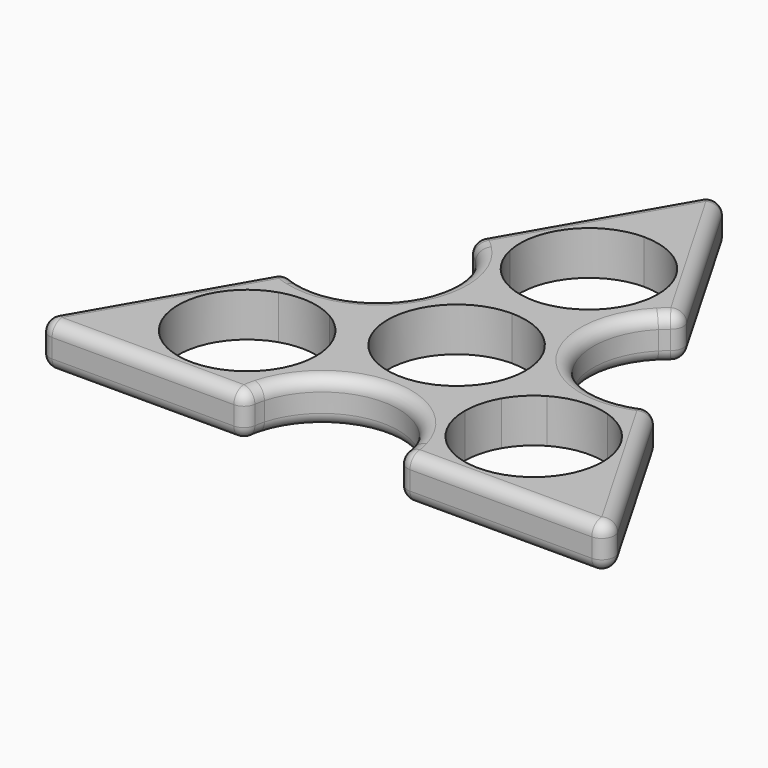
from build123d import *

# Parameters (mm, degrees)
F1_DEPTH = 7
F2_R     = 2


with BuildPart() as f1:
    # F0 (on Top) → F1 (new body)
    with BuildSketch(Plane.XY):
        with BuildLine():
            Line((-16.11, -1.5068842026), (-6.75, 14.7051113563))
            ThreePointArc((-6.75, 14.7051113563), (-10.723450587, 18.1953807491), (-13.0511507063, 22.9442861131))
            ThreePointArc((-13.0511507063, 22.9442861131), (-13.8274395377, 22.4849886776), (-14.5875829235, 21.9994369121))
            ThreePointArc((-14.5875829235, 21.9994369121), (-12.6993398587, 7.3319672859), (-26.3458626966, 1.6334989355))
            ThreePointArc((-26.3458626966, 1.6334989355), (-26.3862911674, 0.7324195701), (-26.3959099988, -0.1695149963))
            ThreePointArc((-26.3959099988, -0.1695149963), (-21.1193872538, 0.18909025), (-16.11, -1.5068842026))
        make_face()
        with BuildLine():
            ThreePointArc((13.3447592925, -22.7747711168), (10.3959366667, -18.3844709991), (9.36, -13.1982271537))
            Line((9.36, -13.1982271537), (-9.36, -13.1982271537))
            ThreePointArc((-9.36, -13.1982271537), (-10.3959366667, -18.3844709991), (-13.3447592925, -22.7747711168))
            ThreePointArc((-13.3447592925, -22.7747711168), (-12.5588516298, -23.2174082477), (-11.7582797731, -23.6329358476))
            ThreePointArc((-11.7582797731, -23.6329358476), (0, -14.6639345718), (11.7582797731, -23.6329358476))
            ThreePointArc((11.7582797731, -23.6329358476), (12.5588516298, -23.2174082477), (13.3447592925, -22.7747711168))
        make_face()
        with BuildLine():
            Line((11.1686570489, -6.4482271537), (9.5262794416, -5.5))
            ThreePointArc((9.5262794416, -5.5), (0, -11), (-9.5262794416, -5.5))
            Line((-9.5262794416, -5.5), (-11.1686570489, -6.4482271537))
            ThreePointArc((-11.1686570489, -6.4482271537), (-9.8200013451, -9.7041700448), (-9.36, -13.1982271537))
            Line((-9.36, -13.1982271537), (9.36, -13.1982271537))
            ThreePointArc((9.36, -13.1982271537), (9.8200013451, -9.7041700448), (11.1686570489, -6.4482271537))
        make_face()
        with BuildLine():
            ThreePointArc((0, 11), (7.7781745931, 7.7781745931), (11, 0))
            ThreePointArc((11, 0), (10.6251840892, -2.8470094961), (9.5262794416, -5.5))
            Line((9.5262794416, -5.5), (11.1686570489, -6.4482271537))
            ThreePointArc((11.1686570489, -6.4482271537), (13.314058454, -3.6522856077), (16.11, -1.5068842026))
            Line((16.11, -1.5068842026), (6.75, 14.7051113563))
            ThreePointArc((6.75, 14.7051113563), (3.4940571089, 13.3564556524), (0, 12.8964543073))
            Line((0, 12.8964543073), (0, 11))
        make_face()
        with BuildLine():
            ThreePointArc((13.0511507063, 22.9442861131), (10.723450587, 18.1953807491), (6.75, 14.7051113563))
            Line((6.75, 14.7051113563), (16.11, -1.5068842026))
            ThreePointArc((16.11, -1.5068842026), (21.1193872538, 0.18909025), (26.3959099988, -0.1695149963))
            ThreePointArc((26.3959099988, -0.1695149963), (26.3963182299, -0.0847579351), (26.3964543073, 0))
            ThreePointArc((26.3964543073, 0), (26.3838033731, 0.817141096), (26.3458626966, 1.6334989355))
            ThreePointArc((26.3458626966, 1.6334989355), (12.6993398587, 7.3319672859), (14.5875829235, 21.9994369121))
            ThreePointArc((14.5875829235, 21.9994369121), (13.8274395377, 22.4849886776), (13.0511507063, 22.9442861131))
        make_face()
        with BuildLine():
            ThreePointArc((26.3959099988, -0.1695149963), (21.1193872538, 0.18909025), (16.11, -1.5068842026))
            Line((16.11, -1.5068842026), (17.36, -3.671947712))
            ThreePointArc((17.36, -3.671947712), (21.7076724667, -2.2587508748), (26.2543774322, -2.7350439933))
            ThreePointArc((26.2543774322, -2.7350439933), (26.3563782869, -1.4540026127), (26.3959099988, -0.1695149963))
        make_face()
        with BuildLine():
            ThreePointArc((15.4958062948, -21.3694358202), (14.4373923432, -22.0982918418), (13.3447592925, -22.7747711168))
            ThreePointArc((13.3447592925, -22.7747711168), (24.6435899017, -26.5798865075), (34.5513429511, -19.9482271537))
            Line((34.5513429511, -19.9482271537), (32.3862794416, -18.6982271537))
            ThreePointArc((32.3862794416, -18.6982271537), (24.5782818797, -24.0631941293), (15.4958062948, -21.3694358202))
        make_face()
        with BuildLine():
            ThreePointArc((36.36, -13.1982271537), (33.583450587, -4.9971535954), (26.3959099988, -0.1695149963))
            ThreePointArc((26.3959099988, -0.1695149963), (26.3563782869, -1.4540026127), (26.2543774322, -2.7350439933))
            ThreePointArc((26.2543774322, -2.7350439933), (31.7577005949, -6.7305440969), (33.86, -13.1982271537))
            ThreePointArc((33.86, -13.1982271537), (33.4851840892, -16.0452366498), (32.3862794416, -18.6982271537))
            Line((32.3862794416, -18.6982271537), (34.5513429511, -19.9482271537))
            ThreePointArc((34.5513429511, -19.9482271537), (35.8999986549, -16.6922842626), (36.36, -13.1982271537))
        make_face()
        with BuildLine():
            Line((11.86, -13.1982271537), (9.36, -13.1982271537))
            ThreePointArc((9.36, -13.1982271537), (10.3959366667, -18.3844709991), (13.3447592925, -22.7747711168))
            ThreePointArc((13.3447592925, -22.7747711168), (14.4373923432, -22.0982918418), (15.4958062948, -21.3694358202))
            ThreePointArc((15.4958062948, -21.3694358202), (12.8099718717, -17.6700203758), (11.86, -13.1982271537))
        make_face()
        with BuildLine():
            ThreePointArc((-34.5513429511, -19.9482271537), (-24.6435899017, -26.5798865075), (-13.3447592925, -22.7747711168))
            ThreePointArc((-13.3447592925, -22.7747711168), (-14.4373923432, -22.0982918418), (-15.4958062948, -21.3694358202))
            ThreePointArc((-15.4958062948, -21.3694358202), (-24.5782818797, -24.0631941293), (-32.3862794416, -18.6982271537))
            Line((-32.3862794416, -18.6982271537), (-34.5513429511, -19.9482271537))
        make_face()
        with BuildLine():
            ThreePointArc((-26.2543774322, -2.7350439933), (-26.3563782869, -1.4540026127), (-26.3959099988, -0.1695149963))
            ThreePointArc((-26.3959099988, -0.1695149963), (-35.3406518961, -8.0520316416), (-34.5513429511, -19.9482271537))
            Line((-34.5513429511, -19.9482271537), (-32.3862794416, -18.6982271537))
            ThreePointArc((-32.3862794416, -18.6982271537), (-33.128478352, -9.2538194245), (-26.2543774322, -2.7350439933))
        make_face()
        with BuildLine():
            Line((-17.36, -3.671947712), (-16.11, -1.5068842026))
            ThreePointArc((-16.11, -1.5068842026), (-21.1193872538, 0.18909025), (-26.3959099988, -0.1695149963))
            ThreePointArc((-26.3959099988, -0.1695149963), (-26.3563782869, -1.4540026127), (-26.2543774322, -2.7350439933))
            ThreePointArc((-26.2543774322, -2.7350439933), (-21.7076724667, -2.2587508748), (-17.36, -3.671947712))
        make_face()
        with BuildLine():
            ThreePointArc((-13.3447592925, -22.7747711168), (-10.3959366667, -18.3844709991), (-9.36, -13.1982271537))
            Line((-9.36, -13.1982271537), (-11.86, -13.1982271537))
            ThreePointArc((-11.86, -13.1982271537), (-12.8099718717, -17.6700203758), (-15.4958062948, -21.3694358202))
            ThreePointArc((-15.4958062948, -21.3694358202), (-14.4373923432, -22.0982918418), (-13.3447592925, -22.7747711168))
        make_face()
        with BuildLine():
            ThreePointArc((-9.36, -13.1982271537), (-9.8200013451, -9.7041700448), (-11.1686570489, -6.4482271537))
            Line((-11.1686570489, -6.4482271537), (-13.3337205584, -7.6982271537))
            ThreePointArc((-13.3337205584, -7.6982271537), (-12.2348159108, -10.3512176575), (-11.86, -13.1982271537))
            Line((-11.86, -13.1982271537), (-9.36, -13.1982271537))
        make_face()
        with BuildLine():
            Line((-13.3337205584, -7.6982271537), (-11.1686570489, -6.4482271537))
            ThreePointArc((-11.1686570489, -6.4482271537), (-13.314058454, -3.6522856077), (-16.11, -1.5068842026))
            Line((-16.11, -1.5068842026), (-17.36, -3.671947712))
            ThreePointArc((-17.36, -3.671947712), (-15.0818254069, -5.4200525606), (-13.3337205584, -7.6982271537))
        make_face()
        with BuildLine():
            ThreePointArc((-9.5262794416, -5.5), (-9.5262794416, 5.5), (0, 11))
            Line((0, 11), (0, 12.8964543073))
            ThreePointArc((0, 12.8964543073), (-3.4940571089, 13.3564556524), (-6.75, 14.7051113563))
            Line((-6.75, 14.7051113563), (-16.11, -1.5068842026))
            ThreePointArc((-16.11, -1.5068842026), (-13.314058454, -3.6522856077), (-11.1686570489, -6.4482271537))
            Line((-11.1686570489, -6.4482271537), (-9.5262794416, -5.5))
        make_face()
        with BuildLine():
            ThreePointArc((16.11, -1.5068842026), (13.314058454, -3.6522856077), (11.1686570489, -6.4482271537))
            Line((11.1686570489, -6.4482271537), (13.3337205584, -7.6982271537))
            ThreePointArc((13.3337205584, -7.6982271537), (15.0818254069, -5.4200525606), (17.36, -3.671947712))
            Line((17.36, -3.671947712), (16.11, -1.5068842026))
        make_face()
        with BuildLine():
            Line((13.3337205584, -7.6982271537), (11.1686570489, -6.4482271537))
            ThreePointArc((11.1686570489, -6.4482271537), (9.8200013451, -9.7041700448), (9.36, -13.1982271537))
            Line((9.36, -13.1982271537), (11.86, -13.1982271537))
            ThreePointArc((11.86, -13.1982271537), (12.2348159108, -10.3512176575), (13.3337205584, -7.6982271537))
        make_face()
        with BuildLine():
            ThreePointArc((-13.0511507063, 22.9442861131), (-10.723450587, 18.1953807491), (-6.75, 14.7051113563))
            Line((-6.75, 14.7051113563), (-5.5, 16.8701748657))
            ThreePointArc((-5.5, 16.8701748657), (-8.8977005949, 19.9287712506), (-10.7585711375, 24.1044798135))
            ThreePointArc((-10.7585711375, 24.1044798135), (-11.9189859437, 23.5522944546), (-13.0511507063, 22.9442861131))
        make_face()
        with BuildLine():
            ThreePointArc((-6.75, 14.7051113563), (-3.4940571089, 13.3564556524), (0, 12.8964543073))
            Line((0, 12.8964543073), (0, 15.3964543073))
            ThreePointArc((0, 15.3964543073), (-2.8470094961, 15.7712702182), (-5.5, 16.8701748657))
            Line((-5.5, 16.8701748657), (-6.75, 14.7051113563))
        make_face()
        with BuildLine():
            Line((0, 15.3964543073), (0, 12.8964543073))
            ThreePointArc((0, 12.8964543073), (3.4940571089, 13.3564556524), (6.75, 14.7051113563))
            Line((6.75, 14.7051113563), (5.5, 16.8701748657))
            ThreePointArc((5.5, 16.8701748657), (2.8470094961, 15.7712702182), (0, 15.3964543073))
        make_face()
        with BuildLine():
            Line((5.5, 16.8701748657), (6.75, 14.7051113563))
            ThreePointArc((6.75, 14.7051113563), (10.723450587, 18.1953807491), (13.0511507063, 22.9442861131))
            ThreePointArc((13.0511507063, 22.9442861131), (11.9189859437, 23.5522944546), (10.7585711375, 24.1044798135))
            ThreePointArc((10.7585711375, 24.1044798135), (8.8977005949, 19.9287712506), (5.5, 16.8701748657))
        make_face()
        with BuildLine():
            ThreePointArc((10.7585711375, 24.1044798135), (11.9189859437, 23.5522944546), (13.0511507063, 22.9442861131))
            ThreePointArc((13.0511507063, 22.9442861131), (13.3873174037, 24.6558415611), (13.5, 26.3964543073))
            ThreePointArc((13.5, 26.3964543073), (9.545941546, 35.9423958534), (0, 39.8964543073))
            Line((0, 39.8964543073), (0, 37.3964543073))
            ThreePointArc((0, 37.3964543073), (7.7781745931, 34.1746289004), (11, 26.3964543073))
            ThreePointArc((11, 26.3964543073), (10.9394762789, 25.244126774), (10.7585711375, 24.1044798135))
        make_face()
        with BuildLine():
            ThreePointArc((0, 39.8964543073), (-10.6970619944, 34.6319181491), (-13.0511507063, 22.9442861131))
            ThreePointArc((-13.0511507063, 22.9442861131), (-11.9189859437, 23.5522944546), (-10.7585711375, 24.1044798135))
            ThreePointArc((-10.7585711375, 24.1044798135), (-8.5501964724, 33.3170135538), (0, 37.3964543073))
            Line((0, 37.3964543073), (0, 39.8964543073))
        make_face()
        with BuildLine():
            ThreePointArc((13.5, 26.3964543073), (13.3873174037, 24.6558415611), (13.0511507063, 22.9442861131))
            ThreePointArc((13.0511507063, 22.9442861131), (13.8274395377, 22.4849886776), (14.5875829235, 21.9994369121))
            ThreePointArc((14.5875829235, 21.9994369121), (15.8082005826, 23.079211819), (17.1619215816, 23.9865490089))
            Line((17.1619215816, 23.9865490089), (0, 53.7118691437))
            Line((0, 53.7118691437), (0, 39.8964543073))
            ThreePointArc((0, 39.8964543073), (9.545941546, 35.9423958534), (13.5, 26.3964543073))
        make_face()
        with BuildLine():
            ThreePointArc((34.5513429511, -19.9482271537), (24.6435899017, -26.5798865075), (13.3447592925, -22.7747711168))
            ThreePointArc((13.3447592925, -22.7747711168), (12.5588516298, -23.2174082477), (11.7582797731, -23.6329358476))
            ThreePointArc((11.7582797731, -23.6329358476), (12.0830834433, -25.2299092021), (12.192, -26.8559345718))
            Line((12.192, -26.8559345718), (46.5158431632, -26.8559345718))
            Line((46.5158431632, -26.8559345718), (34.5513429511, -19.9482271537))
        make_face()
        with BuildLine():
            ThreePointArc((-34.5513429511, -19.9482271537), (-35.3406518961, -8.0520316416), (-26.3959099988, -0.1695149963))
            ThreePointArc((-26.3959099988, -0.1695149963), (-26.3862911674, 0.7324195701), (-26.3458626966, 1.6334989355))
            ThreePointArc((-26.3458626966, 1.6334989355), (-27.8912840259, 2.1506973831), (-29.3539215816, 2.869385563))
            Line((-29.3539215816, 2.869385563), (-46.5158431632, -26.8559345718))
            Line((-46.5158431632, -26.8559345718), (-34.5513429511, -19.9482271537))
        make_face()
        with BuildLine():
            ThreePointArc((-11.7582797731, -23.6329358476), (-12.5588516298, -23.2174082477), (-13.3447592925, -22.7747711168))
            ThreePointArc((-13.3447592925, -22.7747711168), (-24.6435899017, -26.5798865075), (-34.5513429511, -19.9482271537))
            Line((-34.5513429511, -19.9482271537), (-46.5158431632, -26.8559345718))
            Line((-46.5158431632, -26.8559345718), (-12.192, -26.8559345718))
            ThreePointArc((-12.192, -26.8559345718), (-12.0830834433, -25.2299092021), (-11.7582797731, -23.6329358476))
        make_face()
        with BuildLine():
            ThreePointArc((-14.5875829235, 21.9994369121), (-13.8274395377, 22.4849886776), (-13.0511507063, 22.9442861131))
            ThreePointArc((-13.0511507063, 22.9442861131), (-10.6970619944, 34.6319181491), (0, 39.8964543073))
            Line((0, 39.8964543073), (0, 53.7118691437))
            Line((0, 53.7118691437), (-17.1619215816, 23.9865490089))
            ThreePointArc((-17.1619215816, 23.9865490089), (-15.8082005826, 23.079211819), (-14.5875829235, 21.9994369121))
        make_face()
        with BuildLine():
            ThreePointArc((26.3964543073, 0), (26.3963182299, -0.0847579351), (26.3959099988, -0.1695149963))
            ThreePointArc((26.3959099988, -0.1695149963), (33.583450587, -4.9971535954), (36.36, -13.1982271537))
            ThreePointArc((36.36, -13.1982271537), (35.8999986549, -16.6922842626), (34.5513429511, -19.9482271537))
            Line((34.5513429511, -19.9482271537), (46.5158431632, -26.8559345718))
            Line((46.5158431632, -26.8559345718), (29.3539215816, 2.869385563))
            ThreePointArc((29.3539215816, 2.869385563), (27.8912840259, 2.1506973831), (26.3458626966, 1.6334989355))
            ThreePointArc((26.3458626966, 1.6334989355), (26.3838033731, 0.817141096), (26.3964543073, 0))
        make_face()
    extrude(amount=F1_DEPTH)

    # F2
    f2_edges = [f1.edges().sort_by_distance(p)[0] for p in [
        (46.515843, -26.855935, 3.5),
        (29.353922, 2.869386, 3.5),
        (37.934882, -11.993275, 0),
        (37.934882, -11.993275, 7),
        (17.161922, 23.986549, 3.5),
        (12.69934, 7.331967, 0),
        (12.69934, 7.331967, 7),
        (0, 53.711869, 3.5),
        (8.580961, 38.849209, 0),
        (8.580961, 38.849209, 7),
        (-17.161922, 23.986549, 3.5),
        (-8.580961, 38.849209, 0),
        (-8.580961, 38.849209, 7),
        (-29.353922, 2.869386, 3.5),
        (-12.69934, 7.331967, 0),
        (-12.69934, 7.331967, 7),
        (-46.515843, -26.855935, 3.5),
        (-37.934882, -11.993275, 0),
        (-37.934882, -11.993275, 7),
        (12.192, -26.855935, 3.5),
        (29.353922, -26.855935, 0),
        (29.353922, -26.855935, 7),
        (-12.192, -26.855935, 3.5),
        (0, -14.663935, 0),
        (0, -14.663935, 7),
        (-29.353922, -26.855935, 0),
        (-29.353922, -26.855935, 7),
    ]]
    fillet(f2_edges, radius=F2_R)


solid = f1.part
